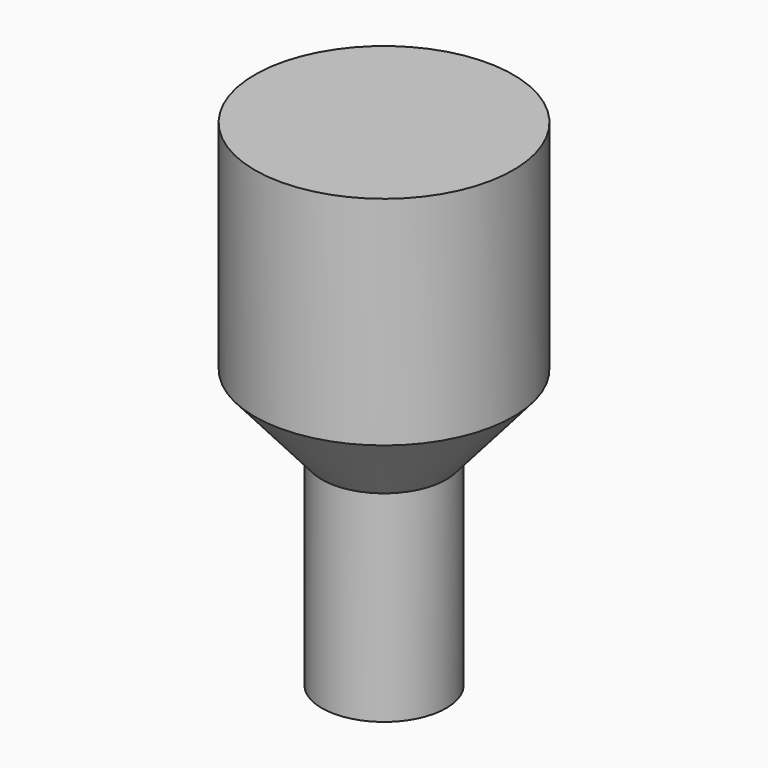
from build123d import *

# Parameters (mm, degrees)
F0_W = 6.7298611856
F0_H = 11.3077862186


with BuildPart() as f1:
    # F0 (on Right) → F1 (revolve)
    with BuildSketch(Plane.YZ):
        with Locations((-3.3649305928, 5.6538931093)):
            Rectangle(F0_W, F0_H)
        Polygon((0, -14.494530331), (0, 0), (-6.7298611856, 0), (-3.24, -4.0146260535), (-3.24, -14.494530331), (-3.175, -14.494530331), align=None)
    revolve(axis=Axis((0, 0, -1.5933720562), (0, 0, -1)))


solid = f1.part
